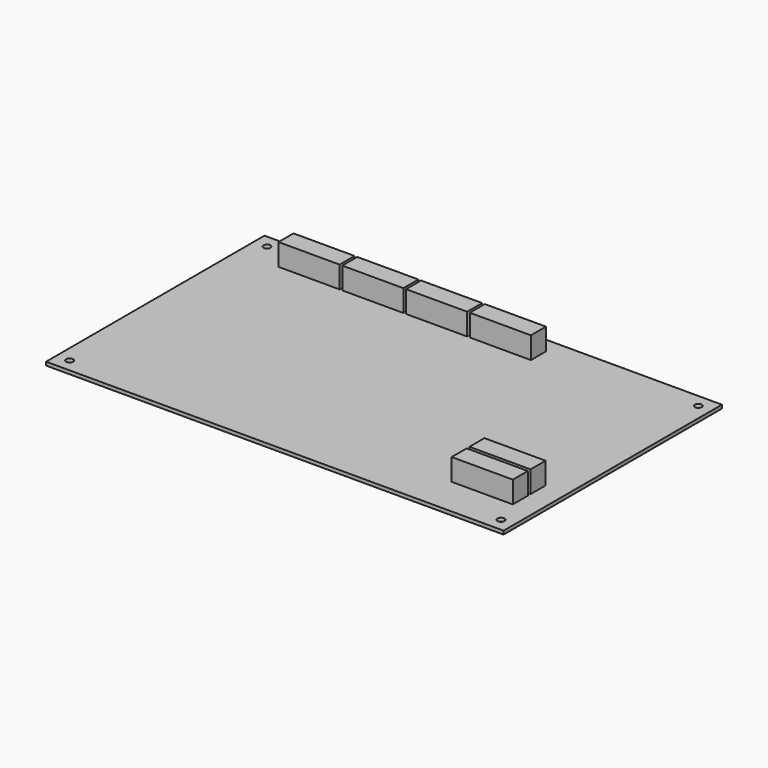
from build123d import *

# Parameters (mm, degrees)
SKETCH010_W      = 209.545
SKETCH010_H      = 125
SKETCH010_R      = 1.6
EXTRUDE010_DEPTH = 1.6
SKETCH015_W      = 28
SKETCH015_H      = 8.6
EXTRUDE014_DEPTH = 10


with BuildPart() as extrude010:
    # Sketch010 → Extrude010 (new body)
    with BuildSketch(Plane.XY.offset(38)):
        with Locations((192.2275, 147.5)):
            Rectangle(SKETCH010_W, SKETCH010_H)
        with Locations((93.455, 204)):
            Circle(SKETCH010_R, mode=Mode.SUBTRACT)
        with Locations((291, 204)):
            Circle(SKETCH010_R, mode=Mode.SUBTRACT)
        with Locations((291, 91)):
            Circle(SKETCH010_R, mode=Mode.SUBTRACT)
        with Locations((93.455, 91)):
            Circle(SKETCH010_R, mode=Mode.SUBTRACT)
    extrude(amount=EXTRUDE010_DEPTH)


with BuildPart() as rf16:
    # Sketch015 (on Face10 of Extrude010) → Extrude014 (new body)
    with BuildSketch(Plane.XY.offset(39.6)):
        with Locations((272.87, 107.23)):
            Rectangle(SKETCH015_W, SKETCH015_H)
        with Locations((272.87, 117.39)):
            Rectangle(SKETCH015_W, SKETCH015_H)
        with Locations((208.11, 198.57)):
            Rectangle(SKETCH015_W, SKETCH015_H)
        with Locations((178.9, 198.57)):
            Rectangle(SKETCH015_W, SKETCH015_H)
        with Locations((149.69, 198.57)):
            Rectangle(SKETCH015_W, SKETCH015_H)
        with Locations((120.48, 198.57)):
            Rectangle(SKETCH015_W, SKETCH015_H)
    extrude(amount=EXTRUDE014_DEPTH)

    # Fusion005: union Extrude010
    add(extrude010.part)


solid = rf16.part
